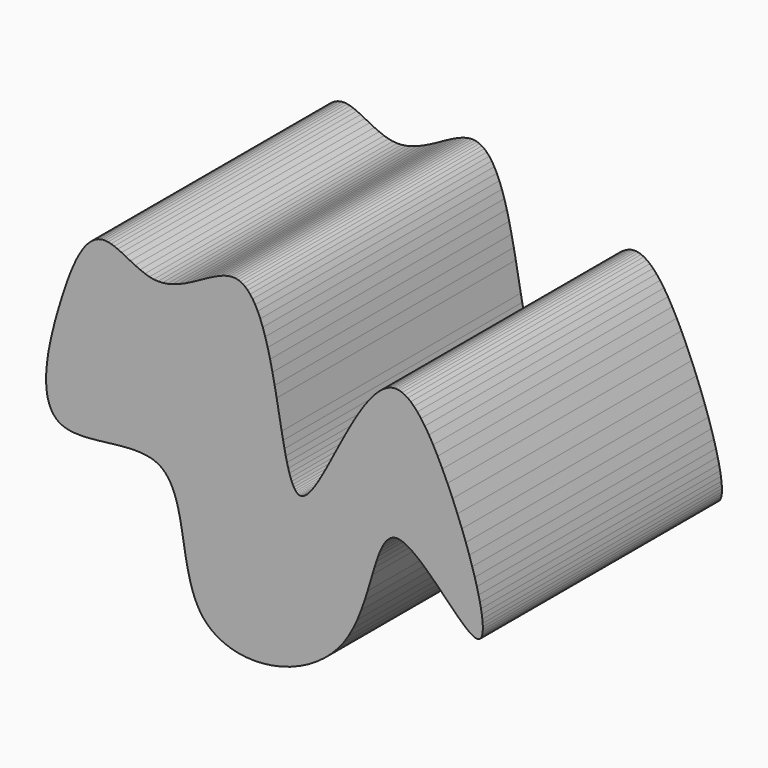
from build123d import *

# Parameters (mm, degrees)
F1_DEPTH = 25.4


with BuildPart() as f1:
    # F0 (on Front) → F1 (new body, symmetric)
    with BuildSketch(Plane.XZ):
        Polygon((-37.503286, -3.605106), (-36.635424, -3.623576), (-35.666508, -3.592792), (-34.590713, -3.51112), (-33.424941, -3.393837), (-30.868334, -3.096632), (-29.631113, -2.97334), (-28.465414, -2.885991), (-27.422021, -2.854844), (-26.480984, -2.876328), (-25.640776, -2.955243), (-24.89691, -3.086727), (-24.251828, -3.266536), (-23.68322, -3.497619), (-23.175669, -3.7765), (-22.710936, -4.118211), (-22.264159, -4.531858), (-21.839785, -5.031731), (-21.4319, -5.632983), (-21.04672, -6.342126), (-20.688695, -7.169927), (-20.357207, -8.118778), (-20.055745, -9.195806), (-19.776443, -10.397566), (-19.518062, -11.730026), (-19.264207, -13.172067), (-19.000733, -14.740233), (-18.719646, -16.327498), (-18.409077, -17.840393), (-18.066509, -19.254784), (-17.685388, -20.507244), (-17.265956, -21.622177), (-16.806417, -22.597341), (-16.306329, -23.449255), (-15.771853, -24.183577), (-15.181388, -24.830648), (-14.51826, -25.424837), (-13.773848, -25.959723), (-12.935723, -26.444692), (-11.998638, -26.866699), (-10.953147, -27.220925), (-9.799415, -27.492082), (-8.529193, -27.668382), (-7.158281, -27.734515), (-5.688702, -27.673275), (-4.153546, -27.47856), (-2.573936, -27.135696), (-0.987789, -26.653183), (0.568452, -26.028847), (2.069237, -25.280026), (3.479663, -24.418149), (4.791349, -23.45876), (5.983082, -22.41941), (7.058456, -21.30551), (8.000357, -20.147884), (8.849694, -18.88785), (9.646356, -17.459546), (10.376289, -15.915337), (11.043467, -14.240588), (11.633701, -12.570443), (12.1225, -11.044899), (12.924403, -8.359865), (13.269668, -7.213089), (13.59559, -6.196279), (13.905519, -5.302354), (14.207294, -4.527947), (14.502512, -3.86377), (14.795514, -3.302049), (15.085914, -2.834868), (15.375196, -2.454455), (15.662087, -2.152609), (15.94481, -1.92149), (16.226364, -1.752239), (16.505646, -1.63402), (16.793191, -1.564917), (17.095155, -1.536155), (17.423574, -1.557471), (17.791221, -1.632522), (18.202037, -1.770774), (18.664284, -1.981393), (19.177763, -2.268933), (19.744542, -2.640158), (20.366093, -3.097607), (21.045675, -3.647662), (21.779998, -4.285562), (22.569978, -5.014086), (23.406255, -5.816988), (24.278644, -6.677028), (25.94775, -8.367862), (26.643763, -9.062647), (27.277959, -9.685146), (27.852199, -10.232848), (28.366718, -10.701812), (28.825774, -11.097163), (29.232297, -11.420808), (29.590504, -11.678463), (29.904581, -11.874567), (30.177546, -12.014861), (30.412064, -12.103743), (30.613378, -12.149684), (30.785557, -12.161558), (30.93478, -12.142544), (31.067799, -12.100018), (31.186963, -12.030266), (31.297312, -11.934325), (31.397516, -11.805305), (31.489122, -11.638758), (31.56854, -11.42839), (31.633882, -11.168253), (31.681593, -10.852866), (31.708714, -10.477408), (31.711571, -10.033954), (31.687078, -9.515969), (31.630504, -8.914456), (31.537973, -8.221389), (31.403829, -7.427318), (31.223231, -6.522992), (30.98986, -5.499785), (30.697842, -4.34761), (30.340995, -3.061607), (29.912528, -1.632001), (29.408396, -0.063451), (28.822167, 1.64907), (28.154212, 3.486285), (27.390639, 5.463849), (26.567809, 7.482001), (25.702753, 9.475281), (24.83957, 11.356442), (24.034101, 13.000668), (23.268147, 14.455204), (22.542821, 15.721089), (21.856035, 16.812119), (21.206735, 17.737575), (20.592938, 18.512043), (20.012536, 19.149105), (19.464848, 19.661055), (18.948638, 20.060777), (18.463462, 20.360084), (18.010295, 20.571431), (17.583633, 20.705769), (17.18379, 20.7778), (16.794284, 20.788732), (16.403089, 20.748782), (15.997146, 20.645633), (15.558651, 20.474445), (15.089816, 20.22301), (14.586784, 19.880637), (14.049969, 19.43794), (13.478858, 18.88471), (12.872369, 18.212737), (12.229385, 17.411838), (11.549493, 16.477734), (10.830913, 15.400108), (10.076622, 14.1869), (9.276295, 12.813734), (8.468068, 11.367235), (7.679856, 9.904839), (5.646235, 6.048457), (5.082475, 4.99883), (4.56605, 4.059831), (4.092487, 3.230234), (3.658972, 2.503565), (3.262165, 1.875528), (2.89917, 1.338355), (2.566799, 0.885241), (2.262594, 0.50899), (1.983571, 0.202133), (1.728122, -0.041328), (1.493942, -0.228026), (1.280144, -0.363525), (1.086735, -0.453883), (0.90872, -0.504255), (0.742722, -0.522122), (0.583898, -0.506568), (0.427122, -0.461271), (0.269858, -0.379932), (0.107722, -0.260128), (-0.058866, -0.093904), (-0.231361, 0.125462), (-0.408524, 0.404103), (-0.589435, 0.747663), (-0.774595, 1.16433), (-0.963969, 1.66113), (-1.158239, 2.247192), (-1.357689, 2.931042), (-1.563484, 3.72152), (-1.77618, 4.628126), (-1.997893, 5.657407), (-2.22974, 6.819061), (-2.475277, 8.113127), (-3.327544, 12.799715), (-3.665577, 14.575123), (-4.045206, 16.431811), (-4.44701, 18.242322), (-4.854831, 19.868525), (-5.270792, 21.339714), (-5.691749, 22.633244), (-6.117349, 23.766805), (-6.546907, 24.746781), (-6.978279, 25.58444), (-7.40998, 26.289488), (-7.839342, 26.872996), (-8.263733, 27.34536), (-8.681553, 27.71831), (-9.088, 28.003302), (-9.490045, 28.211559), (-9.887195, 28.357968), (-10.297047, 28.443003), (-10.73331, 28.474579), (-11.207149, 28.44527), (-11.734097, 28.351493), (-12.314758, 28.189639), (-12.954198, 27.953697), (-13.654558, 27.647296), (-14.418954, 27.267886), (-15.249539, 26.827996), (-16.1555, 26.32798), (-17.118849, 25.801816), (-18.144112, 25.267824), (-19.17293, 24.773334), (-20.145634, 24.374318), (-21.070669, 24.063163), (-21.933174, 23.854146), (-22.743397, 23.737562), (-23.494413, 23.708828), (-24.222885, 23.766854), (-24.95823, 23.909502), (-25.715258, 24.135329), (-26.534014, 24.454618), (-27.368201, 24.830053), (-28.194497, 25.241155), (-28.984014, 25.647696), (-29.693197, 26.001742), (-30.342731, 26.305936), (-30.937666, 26.546292), (-31.481356, 26.724766), (-31.979467, 26.838319), (-32.430111, 26.887964), (-32.850206, 26.881218), (-33.269034, 26.814947), (-33.683478, 26.69322), (-34.102891, 26.503832), (-34.53631, 26.240031), (-34.981569, 25.889529), (-35.440409, 25.440857), (-35.910135, 24.8848), (-36.388987, 24.210672), (-36.875896, 23.411414), (-37.369256, 22.477244), (-37.868913, 21.405656), (-38.374311, 20.187108), (-38.885038, 18.832933), (-39.401903, 17.344704), (-39.920688, 15.742152), (-40.445039, 14.03787), (-40.952173, 12.254844), (-41.433232, 10.374941), (-41.85009, 8.534116), (-42.15558, 6.872994), (-42.367966, 5.359437), (-42.486088, 4.014336), (-42.521056, 2.819226), (-42.480609, 1.765873), (-42.373696, 0.84448), (-42.20898, 0.046027), (-41.99506, -0.640052), (-41.742103, -1.222894), (-41.45407, -1.715801), (-41.140538, -2.131282), (-40.79482, -2.48085), (-40.420616, -2.779093), (-39.99633, -3.029296), (-39.506041, -3.241745), (-38.936422, -3.410023), (-38.268409, -3.532129), align=None)
    extrude(amount=F1_DEPTH, both=True)


solid = f1.part
